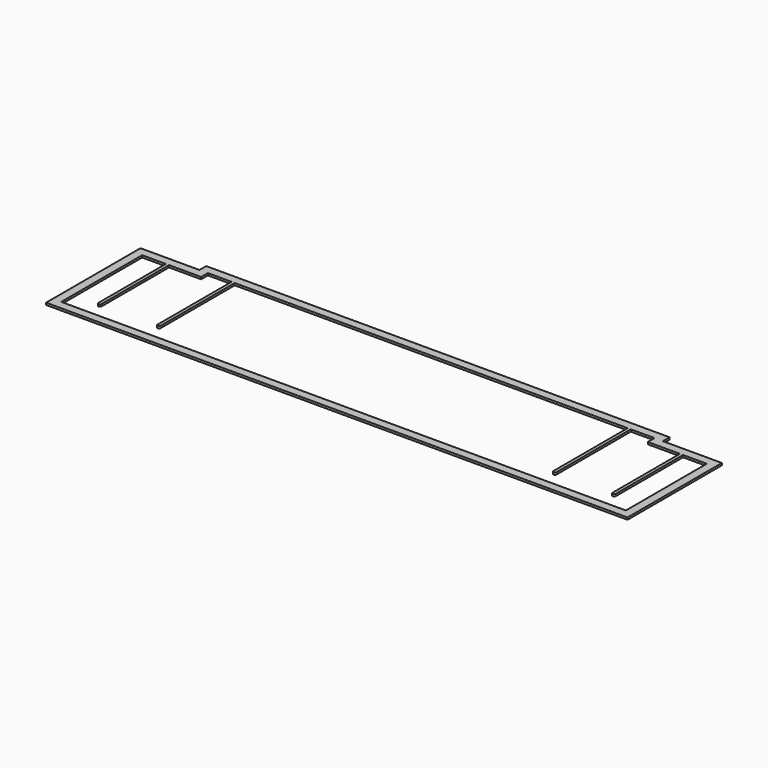
from build123d import *

# Parameters (mm, degrees)
F1_DEPTH = 25.4


with BuildPart() as f1:
    # F0 (on Top) → F1 (new body)
    with BuildSketch(Plane.XY):
        Polygon((0, 0), (0, -1422.4), (7010.4, -1422.4), (7010.4, 0), (6299.2, 0), (6299.2, 101.6), (711.2, 101.6), (711.2, 0), align=None)
        Polygon((6908.8, -1320.8), (101.6, -1320.8), (101.6, -101.6), (387.35, -101.6), (425.45, -101.6), (812.8, -101.6), (812.8, 0), (1098.55, 0), (1136.65, 0), (5873.75, 0), (5911.85, 0), (6197.6, 0), (6197.6, -101.6), (6584.95, -101.6), (6623.05, -101.6), (6908.8, -101.6), align=None, mode=Mode.SUBTRACT)
        with BuildLine():
            Line((425.45, -101.6), (387.35, -101.6))
            Line((387.35, -101.6), (387.35, -1117.6))
            ThreePointArc((387.35, -1117.6), (406.4, -1098.55), (425.45, -1117.6))
            Line((425.45, -1117.6), (425.45, -101.6))
        make_face()
        with BuildLine():
            ThreePointArc((425.45, -1117.6), (406.4, -1098.55), (387.35, -1117.6))
            Line((387.35, -1117.6), (425.45, -1117.6))
        make_face()
        with BuildLine():
            Line((425.45, -1117.6), (387.35, -1117.6))
            ThreePointArc((387.35, -1117.6), (406.4, -1136.65), (425.45, -1117.6))
        make_face()
        with BuildLine():
            Line((1136.65, 0), (1098.55, 0))
            Line((1098.55, 0), (1098.55, -1117.6))
            ThreePointArc((1098.55, -1117.6), (1117.6, -1098.55), (1136.65, -1117.6))
            Line((1136.65, -1117.6), (1136.65, 0))
        make_face()
        with BuildLine():
            ThreePointArc((1136.65, -1117.6), (1117.6, -1098.55), (1098.55, -1117.6))
            Line((1098.55, -1117.6), (1136.65, -1117.6))
        make_face()
        with BuildLine():
            Line((1136.65, -1117.6), (1098.55, -1117.6))
            ThreePointArc((1098.55, -1117.6), (1117.6, -1136.65), (1136.65, -1117.6))
        make_face()
        with BuildLine():
            Line((5911.85, -1117.6), (5911.85, 0))
            Line((5911.85, 0), (5873.75, 0))
            Line((5873.75, 0), (5873.75, -1117.6))
            ThreePointArc((5873.75, -1117.6), (5892.8, -1098.55), (5911.85, -1117.6))
        make_face()
        with BuildLine():
            Line((5873.75, -1117.6), (5911.85, -1117.6))
            ThreePointArc((5911.85, -1117.6), (5892.8, -1098.55), (5873.75, -1117.6))
        make_face()
        with BuildLine():
            ThreePointArc((5873.75, -1117.6), (5892.8, -1136.65), (5911.85, -1117.6))
            Line((5911.85, -1117.6), (5873.75, -1117.6))
        make_face()
        with BuildLine():
            Line((6623.05, -1117.6), (6623.05, -101.6))
            Line((6623.05, -101.6), (6584.95, -101.6))
            Line((6584.95, -101.6), (6584.95, -1117.6))
            ThreePointArc((6584.95, -1117.6), (6604, -1098.55), (6623.05, -1117.6))
        make_face()
        with BuildLine():
            Line((6584.95, -1117.6), (6623.05, -1117.6))
            ThreePointArc((6623.05, -1117.6), (6604, -1098.55), (6584.95, -1117.6))
        make_face()
        with BuildLine():
            ThreePointArc((6584.95, -1117.6), (6604, -1136.65), (6623.05, -1117.6))
            Line((6623.05, -1117.6), (6584.95, -1117.6))
        make_face()
    extrude(amount=F1_DEPTH)


solid = f1.part
